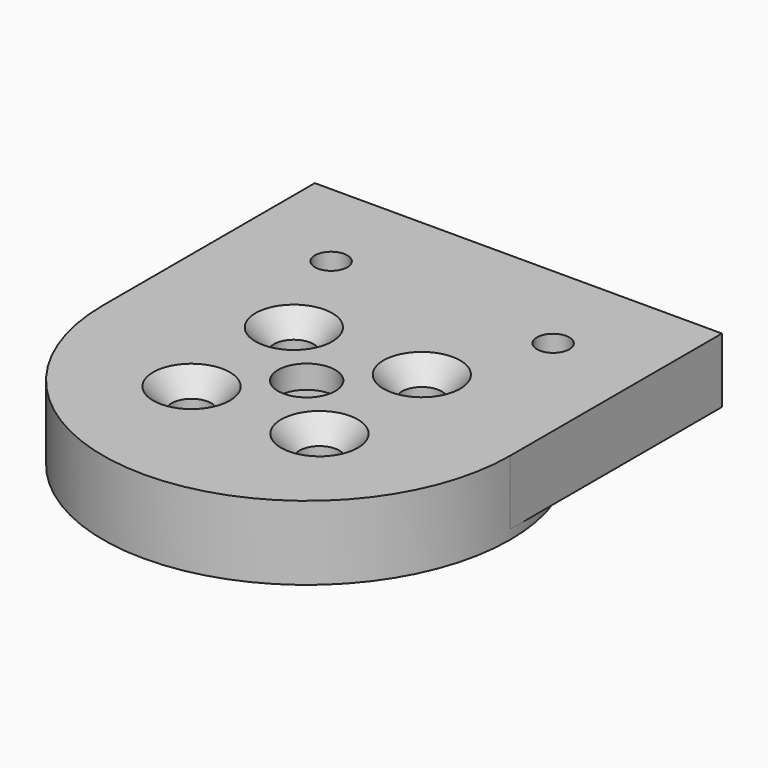
from build123d import *

# Parameters (mm, degrees)
SKETCH096_R         = 22
SKETCH096_R_2       = 3.1
PAD057_DEPTH        = 8
HOLE005_D           = 4.3
HOLE005_CSINK_D     = 8.298
HOLE005_CSINK_ANGLE = 82
SKETCH093_R         = 4
PAD058_DEPTH        = 1
PAD059_DEPTH        = 7
SKETCH094_R         = 1.75
POCKET029_DEPTH     = 6.001


with BuildPart() as part:
    # Sketch096 → Pad057 (new body)
    with BuildSketch(Plane.XY):
        Circle(SKETCH096_R)
        Circle(SKETCH096_R_2, mode=Mode.SUBTRACT)
    extrude(amount=PAD057_DEPTH)

    # Hole005 (through all)
    with Locations(Plane.XY.offset(8)):
        with Locations((-6.914797, 6.914797), (6.914797, 6.914797), (6.914797, -6.914797), (-6.914797, -6.914797)):
            CounterSinkHole(HOLE005_D / 2, HOLE005_CSINK_D / 2, counter_sink_angle=HOLE005_CSINK_ANGLE)

    # Sketch093 → Pad058 (join)
    with BuildSketch(Plane.XY.offset(4.5)):
        Circle(SKETCH093_R)
    extrude(amount=PAD058_DEPTH)

    # Sketch095 → Pad059 (join)
    with BuildSketch(Plane.XY.offset(1)):
        with BuildLine():
            Line((-22, 0), (-22, 28.6))
            Line((-22, 28.6), (22, 28.6))
            Line((22, 28.6), (22, 0))
            Line((22, 0), (21, 0))
            ThreePointArc((21, 0), (0, 21), (-21, 0))
            Line((-21, 0), (-22, 0))
        make_face()
    extrude(amount=PAD059_DEPTH)

    # Sketch094 → Pocket029 (cut, through all)
    with BuildSketch(Plane.XY.offset(2)):
        with Locations((-12, 18.3)):
            Circle(SKETCH094_R)
        with Locations((12, 18.3)):
            Circle(SKETCH094_R)
    extrude(amount=POCKET029_DEPTH, mode=Mode.SUBTRACT)


solid = part.part
